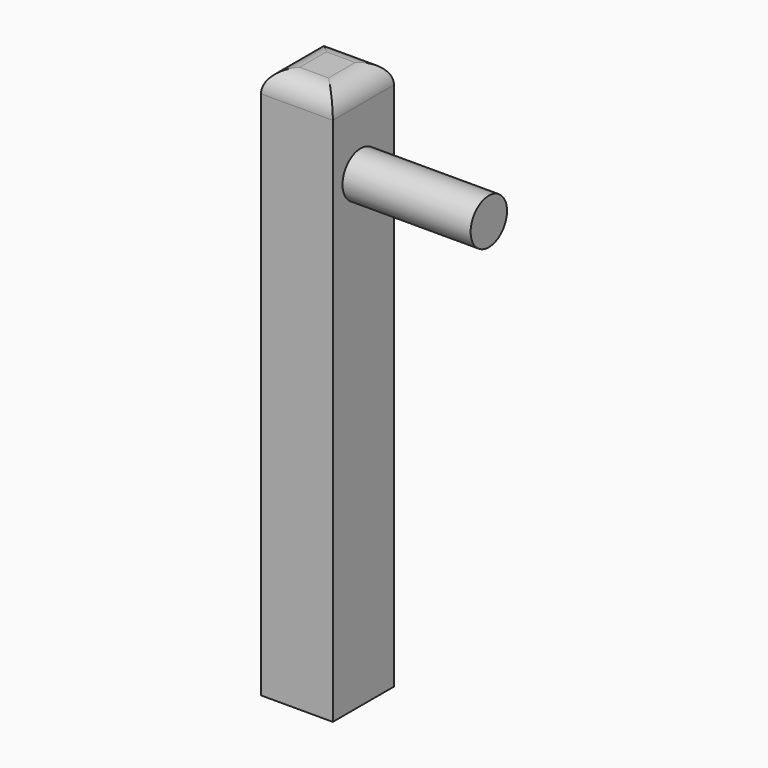
from build123d import *

# Parameters (mm, degrees)
F0_W     = 16.9495176524
F0_H     = 58.9220710099
F1_DEPTH = 18.034
F2_DEPTH = 71.12
F3_R     = 5.08
F4_R     = 5.367457486
F5_DEPTH = 30.226


with BuildPart() as f1:
    # F0 (on Front) → F1 (new body)
    with BuildSketch(Plane.XZ):
        with Locations((-8.4747588262, 29.4610355049)):
            Rectangle(F0_W, F0_H)
    extrude(amount=F1_DEPTH)

    # F2 (add): a face of the model
    f2_faces = [f1.faces().sort_by_distance(p)[0] for p in [
        (-8.4747588262, -9.017, 58.9220710099),
    ]]
    extrude(f2_faces, amount=F2_DEPTH)

    # F3
    f3_edges = [f1.edges().sort_by_distance(p)[0] for p in [
        (-8.474759, -18.034, 130.042071),
        (0, -9.017, 130.042071),
        (-8.474759, 0, 130.042071),
        (-16.949518, -9.017, 130.042071),
    ]]
    fillet(f3_edges, radius=F3_R)

    # F4 (on face) → F5 (join)
    with BuildSketch(Plane.YZ):
        with Locations((-9.8099326715, 110.4333996773)):
            Circle(F4_R)
    extrude(amount=F5_DEPTH)


solid = f1.part
